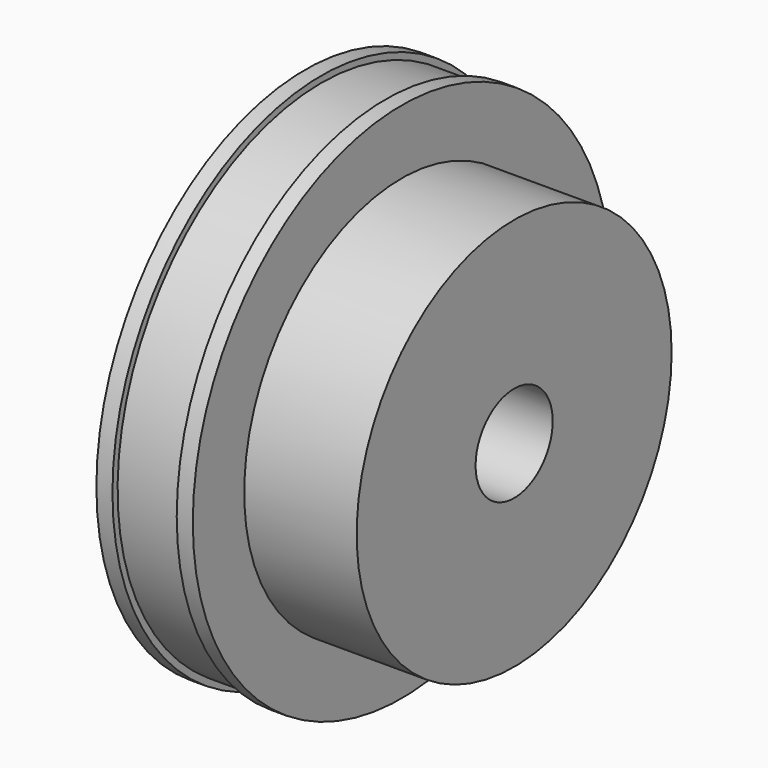
from build123d import *

# Parameters (mm, degrees)
F0_R     = 51.59375
F1_DEPTH = 9.525
F2_R     = 38.89375
F3_DEPTH = 22.225
F4_W     = 12.7
F4_H     = 2.54
F7_D     = 19.05


with BuildPart() as f1:
    # F0 (on Right) → F1 (new body, symmetric)
    with BuildSketch(Plane.YZ):
        Circle(F0_R)
    extrude(amount=F1_DEPTH, both=True)

    # F2 (on face) → F3 (join)
    with BuildSketch(Plane.YZ.offset(9.525)):
        Circle(F2_R)
    extrude(amount=F3_DEPTH)

    # F4 (on Front) → F5 (revolve, cut)
    with BuildSketch(Plane.XZ):
        with Locations((0, 51.59375)):
            Rectangle(F4_W, F4_H)
    revolve(axis=Axis((1.883045, 0, 0), (1, 0, 0)), mode=Mode.SUBTRACT)

    # F7 (through all)
    with Locations(Plane.YZ.offset(31.75)):
        with Locations((0, 0)):
            Hole(F7_D / 2)


solid = f1.part
